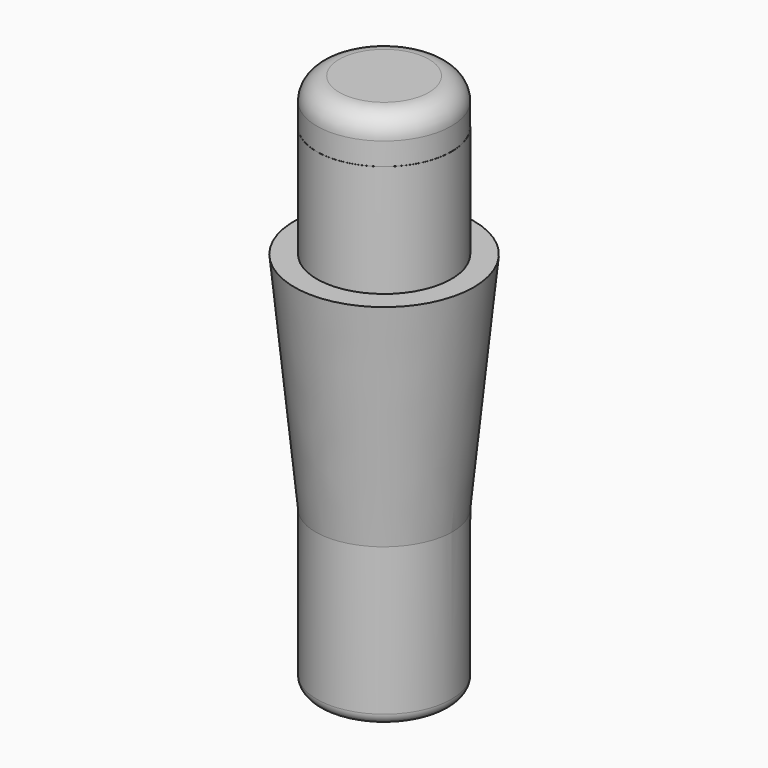
from build123d import *

# Parameters (mm, degrees)
CYLINDER002_R     = 3
CYLINDER002_DEPTH = 22
FILLET004_R       = 0.5
CYLINDER003_R     = 3
CYLINDER003_DEPTH = 7
FILLET003_R       = 1


with BuildPart() as fillet004:
    # Cylinder002 → Cylinder002 (new body)
    with BuildSketch(Plane(origin=(-43.635, 0.385, 10.17), x_dir=(1, 0, 0), z_dir=(0, 0, 1))):
        Circle(CYLINDER002_R)
    extrude(amount=CYLINDER002_DEPTH)

    # Fillet004
    fillet004_edges = [fillet004.edges().sort_by_distance(p)[0] for p in [
        (-46.635, 0.385, 10.17),
    ]]
    fillet(fillet004_edges, radius=FILLET004_R)


with BuildPart() as cone001:
    # Cone001 → Cone001 (revolve)
    with BuildSketch(Plane(origin=(-43.64, 0.39, 17.17), x_dir=(1, 0, 0), z_dir=(0, -1, 0))):
        Polygon((0, 0), (3, 0), (4, 10), (0, 10), align=None)
    revolve(axis=Axis((-43.64, 0.39, 17.17), (0, 0, 1)))


with BuildPart() as fusion002:
    # Cylinder003 → Cylinder003 (new body)
    with BuildSketch(Plane(origin=(-43.64, 0.39, 27.17), x_dir=(1, 0, 0), z_dir=(0, 0, 1))):
        Circle(CYLINDER003_R)
    extrude(amount=CYLINDER003_DEPTH)

    # Fillet003
    fillet003_edges = [fusion002.edges().sort_by_distance(p)[0] for p in [
        (-46.64, 0.39, 34.17),
    ]]
    fillet(fillet003_edges, radius=FILLET003_R)

    # Fusion002: union Fillet004, Cone001
    add(fillet004.part)
    add(cone001.part)


with BuildPart() as fusion002_1:
    # Fusion002 placement: moved
    add(fusion002.part.moved(Location((7.62, -10.16, 0))))


solid = fusion002_1.part
